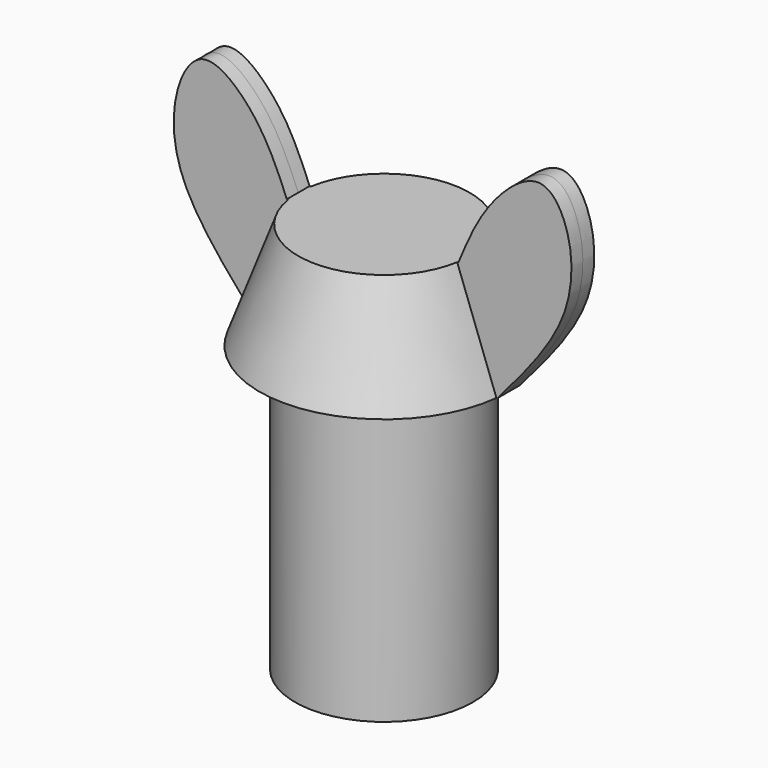
from build123d import *

# Parameters (mm, degrees)
F0_R          = 3.175
F1_DEPTH      = 7.62
F1_DEPTH_BACK = 2.54
F2_R          = 4.445
F3_DEPTH      = 3.81
F3_TAPER      = 20
F5_DEPTH      = 0.508
F5_DEPTH_BACK = 0.508


with BuildPart() as f1:
    # F0 (on Top) → F1 (new body, two sides)
    with BuildSketch(Plane.XY) as f1_sk:
        Circle(F0_R)
    extrude(amount=F1_DEPTH)
    extrude(f1_sk.sketch, amount=-F1_DEPTH_BACK)

    # F2 (on face) → F3 (join)
    with BuildSketch(Plane.XY.offset(7.62)):
        Circle(F2_R)
    extrude(amount=F3_DEPTH, taper=F3_TAPER)

    # F4 (on Front) → F5 (join, two sides)
    with BuildSketch(Plane.XZ) as f5_sk:
        with BuildLine():
            add(Edge.make_bspline(
                [(-4.445, 7.62), (-5.4306236993, 8.7603855695), (-7.2100212951, 10.8191827983), (-7.1408132194, 13.7602810308), (-5.972645336, 15.3897415196), (-3.9825425825, 13.6576128283), (-3.3763941185, 12.1967136328), (-3.0582734074, 11.43)],
                knots=[0, 0, 0, 0, 0.2590951549, 0.4677579243, 0.6174609687, 0.7992346828, 1, 1, 1, 1], degree=3))
            Line((-4.445, 7.62), (-4.3098494229, 7.62))
            Line((-4.3098494229, 7.62), (-2.9231228303, 11.43))
            Line((-2.9231228303, 11.43), (-3.0582734074, 11.43))
        make_face()
        with BuildLine():
            Line((4.3098494229, 7.62), (4.445, 7.62))
            add(Edge.make_bspline(
                [(4.445, 7.62), (5.4306236993, 8.7603855695), (7.2100212951, 10.8191827983), (7.1408132194, 13.7602810308), (5.972645336, 15.3897415196), (3.9825425825, 13.6576128283), (3.3763941185, 12.1967136328), (3.0582734074, 11.43)],
                knots=[0, 0, 0, 0, 0.2590951549, 0.4677579243, 0.6174609687, 0.7992346828, 1, 1, 1, 1], degree=3))
            Line((3.0582734074, 11.43), (2.9231228303, 11.43))
            Line((2.9231228303, 11.43), (4.3098494229, 7.62))
        make_face()
    extrude(amount=F5_DEPTH)
    extrude(f5_sk.sketch, amount=-F5_DEPTH_BACK)


solid = f1.part
